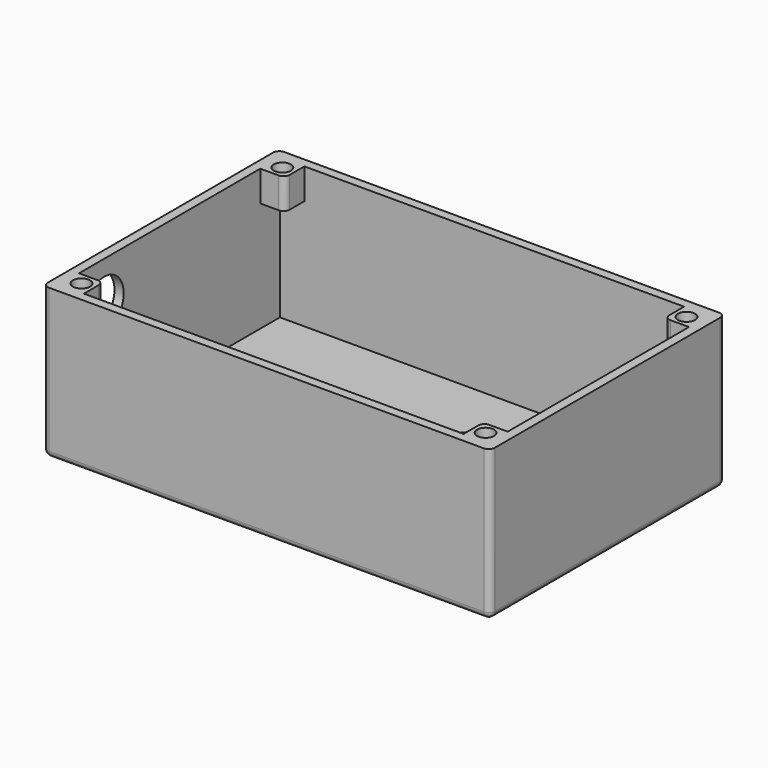
from build123d import *

# Parameters (mm, degrees)
SKETCH_W        = 73
SKETCH_H        = 48
PAD_DEPTH       = 24.5
SKETCH001_W     = 70
SKETCH001_H     = 45
POCKET_DEPTH    = 23
FILLET_R        = 1
FILLET001_R     = 1
FILLET002_R     = 1
FILLET003_R     = 1
SKETCH002_W     = 4
SKETCH002_H     = 4
PAD001_DEPTH    = 5
FILLET004_R     = 1
SKETCH003_W     = 4
SKETCH003_H     = 4
PAD002_DEPTH    = 5
SKETCH004_R     = 1.4
POCKET001_DEPTH = 5
FILLET005_R     = 1
FILLET006_R     = 1
SKETCH005_R     = 1.4
POCKET002_DEPTH = 5
FILLET007_R     = 1
SKETCH006_R     = 1.4
POCKET003_DEPTH = 5
SKETCH007_R     = 16
POCKET004_DEPTH = 5
SKETCH008_R     = 4
POCKET005_DEPTH = 5


with BuildPart() as part:
    # Sketch → Pad (new body)
    with BuildSketch(Plane.XY):
        with Locations((36.5, 24)):
            Rectangle(SKETCH_W, SKETCH_H)
    extrude(amount=PAD_DEPTH)

    # Sketch001 (on Face6 of Pad) → Pocket (cut)
    with BuildSketch(Plane.XY.offset(24.5)):
        with Locations((36.5, 24)):
            Rectangle(SKETCH001_W, SKETCH001_H)
    extrude(amount=-POCKET_DEPTH, mode=Mode.SUBTRACT)

    # Fillet
    fillet_edges = [part.edges().sort_by_distance(p)[0] for p in [
        (73, 0, 12.25),
    ]]
    fillet(fillet_edges, radius=FILLET_R)

    # Fillet001
    fillet001_edges = [part.edges().sort_by_distance(p)[0] for p in [
        (73, 24.5, 0),
    ]]
    fillet(fillet001_edges, radius=FILLET001_R)

    # Fillet002
    fillet002_edges = [part.edges().sort_by_distance(p)[0] for p in [
        (36, 48, 0),
    ]]
    fillet(fillet002_edges, radius=FILLET002_R)

    # Fillet003
    fillet003_edges = [part.edges().sort_by_distance(p)[0] for p in [
        (0, 24, 0),
    ]]
    fillet(fillet003_edges, radius=FILLET003_R)

    # Sketch002 (on Face1 of Fillet003) → Pad001 (join)
    with BuildSketch(Plane.XY.offset(24.5)):
        with Locations((3.499952, 3.499965)):
            Rectangle(SKETCH002_W, SKETCH002_H)
    extrude(amount=-PAD001_DEPTH)

    # Fillet004
    fillet004_edges = [part.edges().sort_by_distance(p)[0] for p in [
        (5.499952, 5.499965, 22),
    ]]
    fillet(fillet004_edges, radius=FILLET004_R)

    # Sketch003 (on Face8 of Fillet004) → Pad002 (join)
    with BuildSketch(Plane.XY.offset(24.5)):
        with Locations((3.499993, 44.500004)):
            Rectangle(SKETCH003_W, SKETCH003_H)
        with Locations((69.500023, 44.500011)):
            Rectangle(SKETCH003_W, SKETCH003_H)
        with Locations((69.500008, 3.499997)):
            Rectangle(SKETCH003_W, SKETCH003_H)
    extrude(amount=-PAD002_DEPTH)

    # Sketch004 (on Face32 of Pad002) → Pocket001 (cut)
    with BuildSketch(Plane.XY.offset(24.5)):
        with Locations((3.503523, 44.499481)):
            Circle(SKETCH004_R)
        with Locations((69.500092, 44.497658)):
            Circle(SKETCH004_R)
    extrude(amount=-POCKET001_DEPTH, mode=Mode.SUBTRACT)

    # Fillet005
    fillet005_edges = [part.edges().sort_by_distance(p)[0] for p in [
        (67.500023, 42.500011, 22),
    ]]
    fillet(fillet005_edges, radius=FILLET005_R)

    # Fillet006
    fillet006_edges = [part.edges().sort_by_distance(p)[0] for p in [
        (5.499993, 42.500004, 22),
    ]]
    fillet(fillet006_edges, radius=FILLET006_R)

    # Sketch005 (on Face45 of Fillet006) → Pocket002 (cut)
    with BuildSketch(Plane.XY.offset(24.5)):
        with Locations((69.49865, 3.49611)):
            Circle(SKETCH005_R)
    extrude(amount=-POCKET002_DEPTH, mode=Mode.SUBTRACT)

    # Fillet007
    fillet007_edges = [part.edges().sort_by_distance(p)[0] for p in [
        (67.500008, 5.499997, 22),
    ]]
    fillet(fillet007_edges, radius=FILLET007_R)

    # Sketch006 (on Face35 of Fillet007) → Pocket003 (cut)
    with BuildSketch(Plane.XY.offset(24.5)):
        with Locations((3.5, 3.5)):
            Circle(SKETCH006_R)
    extrude(amount=-POCKET003_DEPTH, mode=Mode.SUBTRACT)

    # Sketch007 (on Face51 of Pocket003) → Pocket004 (cut)
    with BuildSketch(Plane(origin=(0, 0, 0), x_dir=(1, 0, 0), z_dir=(0, 0, -1))):
        with Locations((49.750546, -24)):
            Circle(SKETCH007_R)
    extrude(amount=-POCKET004_DEPTH, mode=Mode.SUBTRACT)

    # Sketch008 (on Face21 of Pocket004) → Pocket005 (cut)
    with BuildSketch(Plane(origin=(0, 0, 0), x_dir=(0, -1, 0), z_dir=(-1, 0, 0))):
        with Locations((-10.616032, 17.928658)):
            Circle(SKETCH008_R)
    extrude(amount=-POCKET005_DEPTH, mode=Mode.SUBTRACT)


solid = part.part
